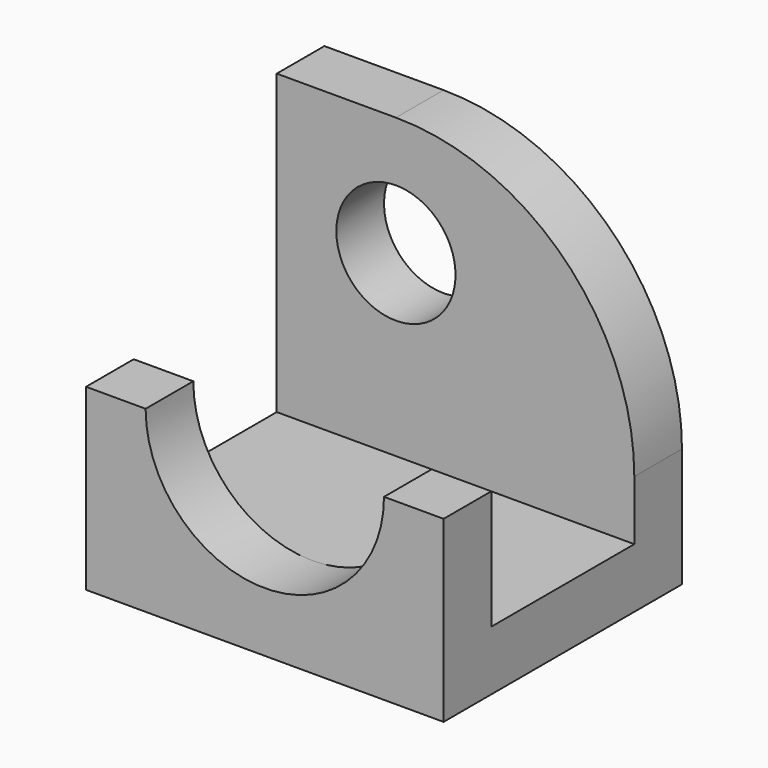
from build123d import *

# Parameters (mm, degrees)
F0_W     = 152.4
F0_H     = 152.4
F1_DEPTH = 63.5
F3_DEPTH = 152.401
F5_DEPTH = 25.4
F6_R     = 25.4
F7_DEPTH = 25.4


with BuildPart() as f1:
    # F0 (on Front) → F1 (new body, symmetric)
    with BuildSketch(Plane.XZ):
        Rectangle(F0_W, F0_H)
    extrude(amount=F1_DEPTH, both=True)

    # F2 (on face) → F3 (cut, through all)
    with BuildSketch(Plane.YZ.offset(76.2)):
        Polygon((38.1, 76.2), (-38.1, 76.2), (-38.1, -50.8), (0, -50.8), (38.1, -50.8), align=None)
    extrude(amount=-F3_DEPTH, mode=Mode.SUBTRACT)

    # F4 (on face) → F5 (cut, through all)
    with BuildSketch(Plane.XZ.offset(63.5)):
        with BuildLine():
            Line((76.2, 0), (76.2, 76.2))
            Line((76.2, 76.2), (-76.2, 76.2))
            Line((-76.2, 76.2), (-76.2, 0))
            Line((-76.2, 0), (-50.8, 0))
            ThreePointArc((-50.8, 0), (0, 50.8), (50.8, 0))
            Line((50.8, 0), (76.2, 0))
        make_face()
        with BuildLine():
            Line((-50.8, 0), (50.8, 0))
            ThreePointArc((50.8, 0), (0, 50.8), (-50.8, 0))
        make_face()
        with BuildLine():
            ThreePointArc((-50.8, 0), (0, -50.8), (50.8, 0))
            Line((50.8, 0), (-50.8, 0))
        make_face()
    extrude(amount=-F5_DEPTH, mode=Mode.SUBTRACT)

    # F6 (on face) → F7 (cut, through all)
    with BuildSketch(Plane(origin=(0, 63.5, 0), x_dir=(-1, 0, 0), z_dir=(0, 1, 0))):
        with BuildLine():
            Line((25.3999998624, 76.2), (-76.2, 76.2))
            Line((-76.2, 76.2), (-76.2, -25.4))
            ThreePointArc((-76.2, -25.4), (-46.4420490172, 46.4420489199), (25.3999998624, 76.2))
        make_face()
        with Locations((25.4, 25.4)):
            Circle(F6_R)
    extrude(amount=-F7_DEPTH, mode=Mode.SUBTRACT)


solid = f1.part
